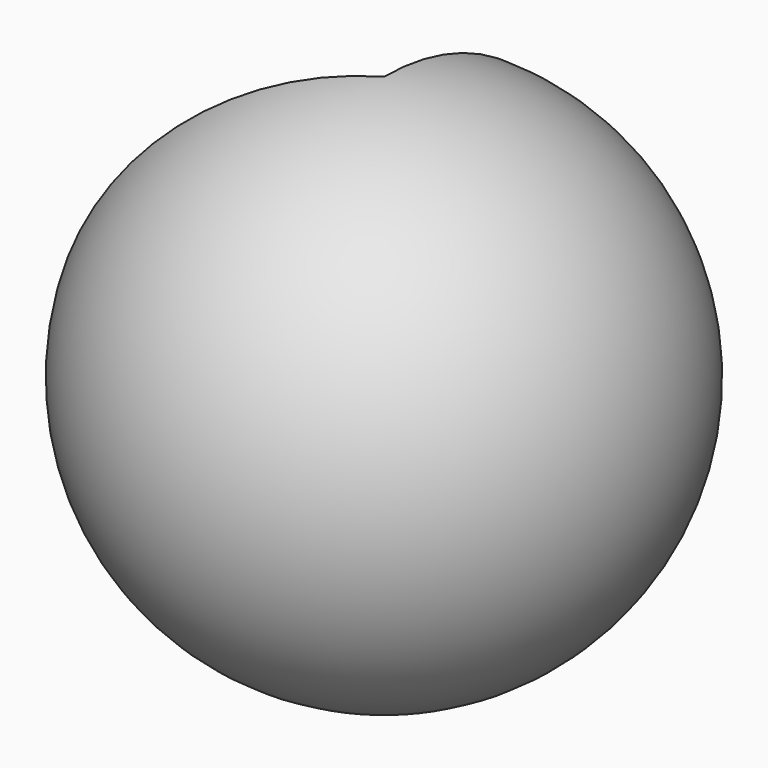
from build123d import *

# Parameters (mm, degrees)
REVOLUTION_ANGLE = -240


with BuildPart() as part:
    # Sketch → Revolution (revolve)
    with BuildSketch(Plane.YZ):
        with BuildLine():
            ThreePointArc((0, -14.393899), (14.393899, 0), (0, 14.393899))
            Line((0, 14.393899), (0, -14.393899))
        make_face()
    revolve(axis=Axis((0, 0, 0), (0, 0, 1)), revolution_arc=REVOLUTION_ANGLE)


solid = part.part
